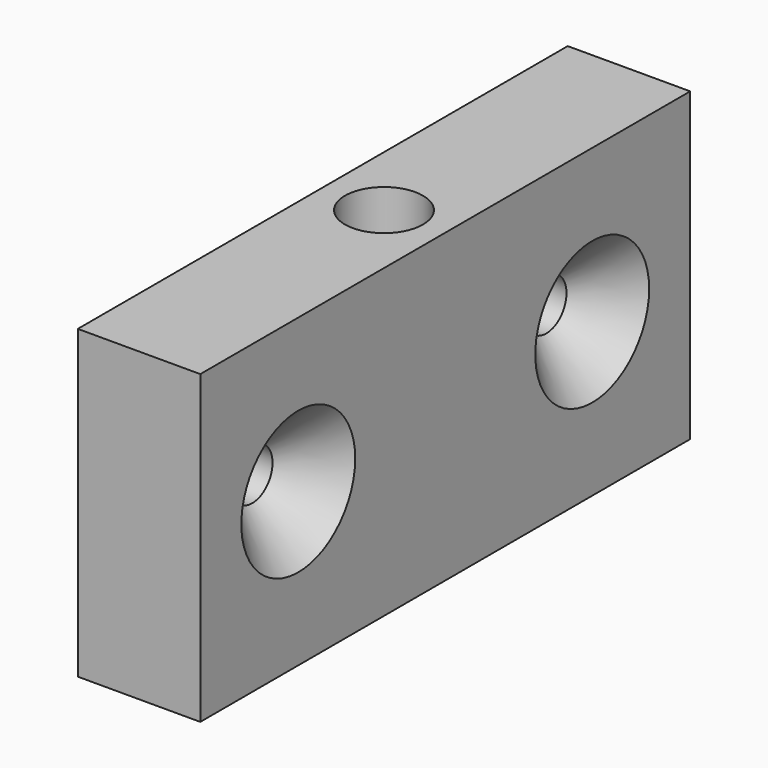
from build123d import *

# Parameters (mm, degrees)
F0_W     = 40
F0_H     = 20
F0_R     = 1.65
F1_DEPTH = 8
F2_SIZE  = 3
F3_R     = 2.55
F4_DEPTH = 20.001


with BuildPart() as f1:
    # F0 (on Right) → F1 (new body)
    with BuildSketch(Plane.YZ):
        Rectangle(F0_W, F0_H)
        with Locations((-12, 0)):
            Circle(F0_R, mode=Mode.SUBTRACT)
        with Locations((12, 0)):
            Circle(F0_R, mode=Mode.SUBTRACT)
    extrude(amount=F1_DEPTH)

    # F2
    f2_edges = [f1.edges().sort_by_distance(p)[0] for p in [
        (8, -13.65, 0),
        (8, 10.35, 0),
    ]]
    chamfer(f2_edges, length=F2_SIZE)

    # F3 (on face) → F4 (cut, through all)
    with BuildSketch(Plane(origin=(0, 0, -10), x_dir=(1, 0, 0), z_dir=(0, 0, -1))):
        with Locations((4, 0)):
            Circle(F3_R)
    extrude(amount=-F4_DEPTH, mode=Mode.SUBTRACT)


solid = f1.part
